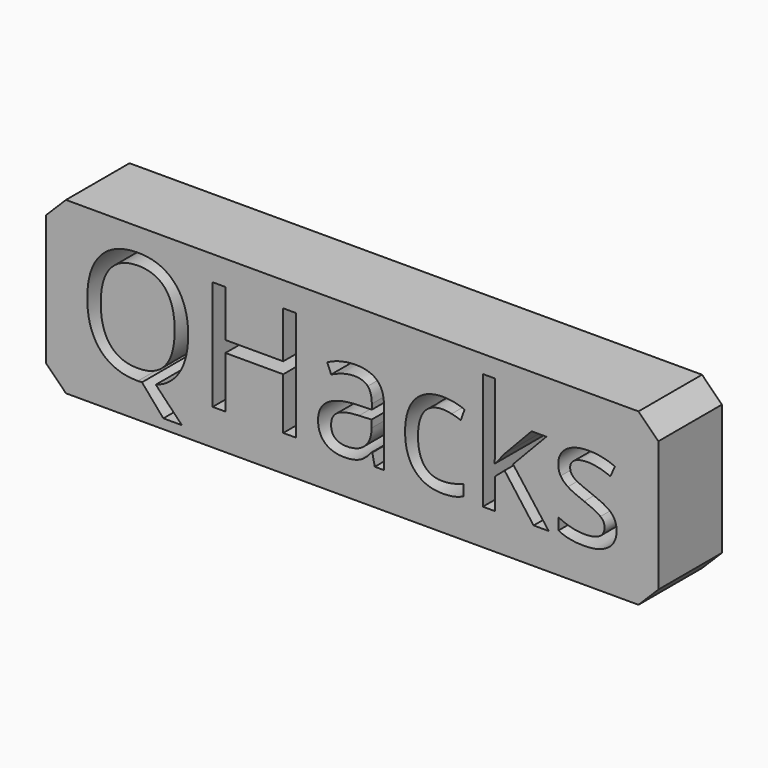
from build123d import *

# Parameters (mm, degrees)
F0_W     = 195.7156552496
F0_H     = 54.4285553703
F1_DEPTH = 25.4
F2_SIZE  = 6.35


with BuildPart() as f1:
    # F0 (on Front) → F1 (new body)
    with BuildSketch(Plane.XZ):
        with Locations((1.5967868947, 19.0752327908)):
            Rectangle(F0_W, F0_H)
        with BuildLine():
            add(Edge.make_bspline(
                [(-55.0757028941, 34.1243483876), (-50.8299687136, 29.3258242234), (-50.8299687136, 20.8804216944)],
                knots=[0, 0, 0, 1, 1, 1], degree=2))
            add(Edge.make_bspline(
                [(-50.8299687136, 20.8804216944), (-50.8299687136, 14.1394549486), (-53.5401751616, 9.6749080662)],
                knots=[0, 0, 0, 1, 1, 1], degree=2))
            add(Edge.make_bspline(
                [(-53.5401751616, 9.6749080662), (-56.2503816095, 5.2103611838), (-61.1947809083, 3.6287676193)],
                knots=[0, 0, 0, 1, 1, 1], degree=2))
            Line((-61.1947809083, 3.6287676193), (-52.8491876819, -5.0623193469))
            Line((-52.8491876819, -5.0623193469), (-58.7763247296, -5.0623193469))
            Line((-58.7763247296, -5.0623193469), (-65.6094231394, 2.861003753))
            Line((-65.6094231394, 2.861003753), (-66.9299769894, 2.8072602824))
            add(Edge.make_bspline(
                [(-66.9299769894, 2.8072602824), (-74.6767144, 2.8072602824), (-78.8878992065, 7.5482021566)],
                knots=[0, 0, 0, 1, 1, 1], degree=2))
            add(Edge.make_bspline(
                [(-78.8878992065, 7.5482021566), (-83.099084013, 12.2891440308), (-83.099084013, 20.9264875264)],
                knots=[0, 0, 0, 1, 1, 1], degree=2))
            add(Edge.make_bspline(
                [(-83.099084013, 20.9264875264), (-83.099084013, 29.494732274), (-78.8763827485, 34.2088024129)],
                knots=[0, 0, 0, 1, 1, 1], degree=2))
            add(Edge.make_bspline(
                [(-78.8763827485, 34.2088024129), (-74.653681484, 38.9228725518), (-66.8839111574, 38.9228725518)],
                knots=[0, 0, 0, 1, 1, 1], degree=2))
            add(Edge.make_bspline(
                [(-66.8839111574, 38.9228725518), (-59.3214370746, 38.9228725518), (-55.0757028941, 34.1243483876)],
                knots=[0, 0, 0, 1, 1, 1], degree=2))
        make_face(mode=Mode.SUBTRACT)
        with BuildLine():
            Line((11.7658193034, 3.2909515182), (8.8099284183, 3.2909515182))
            Line((8.8099284183, 3.2909515182), (8.019131636, 7.0376391856))
            Line((8.019131636, 7.0376391856), (7.8271906695, 7.0376391856))
            add(Edge.make_bspline(
                [(7.8271906695, 7.0376391856), (5.8617151718, 4.5654395362), (3.9077561321, 3.6863499093)],
                knots=[0, 0, 0, 1, 1, 1], degree=2))
            add(Edge.make_bspline(
                [(3.9077561321, 3.6863499093), (1.9537970925, 2.8072602824), (-0.9790608767, 2.8072602824)],
                knots=[0, 0, 0, 1, 1, 1], degree=2))
            add(Edge.make_bspline(
                [(-0.9790608767, 2.8072602824), (-4.886978956, 2.8072602824), (-7.1058165295, 4.8264792507)],
                knots=[0, 0, 0, 1, 1, 1], degree=2))
            add(Edge.make_bspline(
                [(-7.1058165295, 4.8264792507), (-9.324654103, 6.845698219), (-9.324654103, 10.5616753317)],
                knots=[0, 0, 0, 1, 1, 1], degree=2))
            add(Edge.make_bspline(
                [(-9.324654103, 10.5616753317), (-9.324654103, 18.523386625), (3.4125484384, 18.9072685581)],
                knots=[0, 0, 0, 1, 1, 1], degree=2))
            Line((3.4125484384, 18.9072685581), (7.8732565014, 19.0531436927))
            Line((7.8732565014, 19.0531436927), (7.8732565014, 20.6884807279))
            add(Edge.make_bspline(
                [(7.8732565014, 20.6884807279), (7.8732565014, 23.7825691089), (6.5450250128, 25.2566757322)],
                knots=[0, 0, 0, 1, 1, 1], degree=2))
            add(Edge.make_bspline(
                [(6.5450250128, 25.2566757322), (5.2167935241, 26.7307823554), (2.283935555, 26.7307823554)],
                knots=[0, 0, 0, 1, 1, 1], degree=2))
            add(Edge.make_bspline(
                [(2.283935555, 26.7307823554), (-1.0020937927, 26.7307823554), (-5.1480186705, 24.7192410258)],
                knots=[0, 0, 0, 1, 1, 1], degree=2))
            Line((-5.1480186705, 24.7192410258), (-6.3764408566, 27.7672635749))
            add(Edge.make_bspline(
                [(-6.3764408566, 27.7672635749), (-4.4339982749, 28.8191000717), (-2.1191902181, 29.4179558874)],
                knots=[0, 0, 0, 1, 1, 1], degree=2))
            add(Edge.make_bspline(
                [(-2.1191902181, 29.4179558874), (0.1956178387, 30.016811703), (2.5296199922, 30.016811703)],
                knots=[0, 0, 0, 1, 1, 1], degree=2))
            add(Edge.make_bspline(
                [(2.5296199922, 30.016811703), (7.2283348538, 30.016811703), (9.4970770786, 27.9323328061)],
                knots=[0, 0, 0, 1, 1, 1], degree=2))
            add(Edge.make_bspline(
                [(9.4970770786, 27.9323328061), (11.7658193034, 25.8478539092), (11.7658193034, 21.2412707116)],
                knots=[0, 0, 0, 1, 1, 1], degree=2))
            Line((11.7658193034, 21.2412707116), (11.7658193034, 3.2909515182))
        make_face(mode=Mode.SUBTRACT)
        with BuildLine():
            add(Edge.make_bspline(
                [(37.1173821677, 4.181557603), (34.4839521064, 2.8072602824), (30.4762247245, 2.8072602824)],
                knots=[0, 0, 0, 1, 1, 1], degree=2))
            add(Edge.make_bspline(
                [(30.4762247245, 2.8072602824), (24.7640615594, 2.8072602824), (21.631584985, 6.3236187899)],
                knots=[0, 0, 0, 1, 1, 1], degree=2))
            add(Edge.make_bspline(
                [(21.631584985, 6.3236187899), (18.4991084106, 9.8399772974), (18.4991084106, 16.2738384968)],
                knots=[0, 0, 0, 1, 1, 1], degree=2))
            add(Edge.make_bspline(
                [(18.4991084106, 16.2738384968), (18.4991084106, 22.8689301081), (21.6814896363, 26.4697426409)],
                knots=[0, 0, 0, 1, 1, 1], degree=2))
            add(Edge.make_bspline(
                [(21.6814896363, 26.4697426409), (24.863870862, 30.0705551737), (30.737264439, 30.0705551737)],
                knots=[0, 0, 0, 1, 1, 1], degree=2))
            add(Edge.make_bspline(
                [(30.737264439, 30.0705551737), (32.6336411887, 30.0705551737), (34.5300179384, 29.6598015052)],
                knots=[0, 0, 0, 1, 1, 1], degree=2))
            add(Edge.make_bspline(
                [(34.5300179384, 29.6598015052), (36.4263946881, 29.2490478368), (37.5012641008, 28.6962578531)],
                knots=[0, 0, 0, 1, 1, 1], degree=2))
            Line((37.5012641008, 28.6962578531), (36.2805195535, 25.3180968415))
            add(Edge.make_bspline(
                [(36.2805195535, 25.3180968415), (34.9599657035, 25.8478539092), (33.4014050549, 26.193347649)],
                knots=[0, 0, 0, 1, 1, 1], degree=2))
            add(Edge.make_bspline(
                [(33.4014050549, 26.193347649), (31.8428444064, 26.5388413888), (30.645132775, 26.5388413888)],
                knots=[0, 0, 0, 1, 1, 1], degree=2))
            add(Edge.make_bspline(
                [(30.645132775, 26.5388413888), (22.6296780112, 26.5388413888), (22.6296780112, 16.3199043288)],
                knots=[0, 0, 0, 1, 1, 1], degree=2))
            add(Edge.make_bspline(
                [(22.6296780112, 16.3199043288), (22.6296780112, 11.4753143326), (24.5836370508, 8.8841112839)],
                knots=[0, 0, 0, 1, 1, 1], degree=2))
            add(Edge.make_bspline(
                [(24.5836370508, 8.8841112839), (26.5375960905, 6.2929082353), (30.3764154218, 6.2929082353)],
                knots=[0, 0, 0, 1, 1, 1], degree=2))
            add(Edge.make_bspline(
                [(30.3764154218, 6.2929082353), (33.6624447695, 6.2929082353), (37.1173821677, 7.7055937492)],
                knots=[0, 0, 0, 1, 1, 1], degree=2))
            Line((37.1173821677, 7.7055937492), (37.1173821677, 4.181557603))
        make_face(mode=Mode.SUBTRACT)
        with BuildLine():
            add(Edge.make_bspline(
                [(84.4653798006, 14.8074095122), (86.1083944744, 13.0799408131), (86.1083944744, 10.4618660291)],
                knots=[0, 0, 0, 1, 1, 1], degree=2))
            add(Edge.make_bspline(
                [(86.1083944744, 10.4618660291), (86.1083944744, 6.7919547483), (83.3751551105, 4.7996075154)],
                knots=[0, 0, 0, 1, 1, 1], degree=2))
            add(Edge.make_bspline(
                [(83.3751551105, 4.7996075154), (80.6419157466, 2.8072602824), (75.6975164478, 2.8072602824)],
                knots=[0, 0, 0, 1, 1, 1], degree=2))
            add(Edge.make_bspline(
                [(75.6975164478, 2.8072602824), (70.4690445185, 2.8072602824), (67.543864188, 4.4656302335)],
                knots=[0, 0, 0, 1, 1, 1], degree=2))
            Line((67.543864188, 4.4656302335), (67.543864188, 8.1585744303))
            add(Edge.make_bspline(
                [(67.543864188, 8.1585744303), (69.4402409377, 7.1988695975), (71.6091738599, 6.6499184331)],
                knots=[0, 0, 0, 1, 1, 1], degree=2))
            add(Edge.make_bspline(
                [(71.6091738599, 6.6499184331), (73.7781067821, 6.1009672687), (75.7973257504, 6.1009672687)],
                knots=[0, 0, 0, 1, 1, 1], degree=2))
            add(Edge.make_bspline(
                [(75.7973257504, 6.1009672687), (78.9144470475, 6.1009672687), (80.5920110953, 7.0952214755)],
                knots=[0, 0, 0, 1, 1, 1], degree=2))
            add(Edge.make_bspline(
                [(80.5920110953, 7.0952214755), (82.2695751431, 8.0894756823), (82.2695751431, 10.1317275666)],
                knots=[0, 0, 0, 1, 1, 1], degree=2))
            add(Edge.make_bspline(
                [(82.2695751431, 10.1317275666), (82.2695751431, 11.6672552992), (80.9413436544, 12.7574799893)],
                knots=[0, 0, 0, 1, 1, 1], degree=2))
            add(Edge.make_bspline(
                [(80.9413436544, 12.7574799893), (79.6131121658, 13.8477046794), (75.7435822798, 15.3371665799)],
                knots=[0, 0, 0, 1, 1, 1], degree=2))
            add(Edge.make_bspline(
                [(75.7435822798, 15.3371665799), (72.073670999, 16.7037862619), (70.5266268085, 17.724912204)],
                knots=[0, 0, 0, 1, 1, 1], degree=2))
            add(Edge.make_bspline(
                [(70.5266268085, 17.724912204), (68.9795826179, 18.7460381462), (68.2233352097, 20.0397202609)],
                knots=[0, 0, 0, 1, 1, 1], degree=2))
            add(Edge.make_bspline(
                [(68.2233352097, 20.0397202609), (67.4670878014, 21.3334023755), (67.4670878014, 23.1299698226)],
                knots=[0, 0, 0, 1, 1, 1], degree=2))
            add(Edge.make_bspline(
                [(67.4670878014, 23.1299698226), (67.4670878014, 26.3469004223), (70.0851625854, 28.208727798)],
                knots=[0, 0, 0, 1, 1, 1], degree=2))
            add(Edge.make_bspline(
                [(70.0851625854, 28.208727798), (72.7032373694, 30.0705551737), (77.2560770963, 30.0705551737)],
                knots=[0, 0, 0, 1, 1, 1], degree=2))
            add(Edge.make_bspline(
                [(77.2560770963, 30.0705551737), (81.5018112768, 30.0705551737), (85.5632821294, 28.3430864746)],
                knots=[0, 0, 0, 1, 1, 1], degree=2))
            Line((85.5632821294, 28.3430864746), (84.1429189768, 25.1031229589))
            add(Edge.make_bspline(
                [(84.1429189768, 25.1031229589), (80.1889350655, 26.7307823554), (76.9720044658, 26.7307823554)],
                knots=[0, 0, 0, 1, 1, 1], degree=2))
            add(Edge.make_bspline(
                [(76.9720044658, 26.7307823554), (74.1389557993, 26.7307823554), (72.69939855, 25.8440150899)],
                knots=[0, 0, 0, 1, 1, 1], degree=2))
            add(Edge.make_bspline(
                [(72.69939855, 25.8440150899), (71.2598413008, 24.9572478243), (71.2598413008, 23.3986871758)],
                knots=[0, 0, 0, 1, 1, 1], degree=2))
            add(Edge.make_bspline(
                [(71.2598413008, 23.3986871758), (71.2598413008, 22.3391730403), (71.8011148265, 21.5982809094)],
                knots=[0, 0, 0, 1, 1, 1], degree=2))
            add(Edge.make_bspline(
                [(71.8011148265, 21.5982809094), (72.3423883522, 20.8573887784), (73.5400999836, 20.1855953954)],
                knots=[0, 0, 0, 1, 1, 1], degree=2))
            add(Edge.make_bspline(
                [(73.5400999836, 20.1855953954), (74.737811615, 19.5138020125), (78.1466831812, 18.2393139944)],
                knots=[0, 0, 0, 1, 1, 1], degree=2))
            add(Edge.make_bspline(
                [(78.1466831812, 18.2393139944), (82.8223651268, 16.5348782113), (84.4653798006, 14.8074095122)],
                knots=[0, 0, 0, 1, 1, 1], degree=2))
        make_face(mode=Mode.SUBTRACT)
        Polygon((-16.3804040341, 38.3700825681), (-16.3804040341, 3.2909515182), (-20.457230164, 3.2909515182), (-20.457230164, 19.797874643), (-38.9373064251, 19.797874643), (-38.9373064251, 3.2909515182), (-43.014132555, 3.2909515182), (-43.014132555, 38.3700825681), (-38.9373064251, 38.3700825681), (-38.9373064251, 23.4447530078), (-20.457230164, 23.4447530078), (-20.457230164, 38.3700825681), align=None, mode=Mode.SUBTRACT)
        with BuildLine():
            Line((47.1059900679, 16.7498520939), (47.2979310344, 16.7498520939))
            add(Edge.make_bspline(
                [(47.2979310344, 16.7498520939), (48.3267346153, 18.2162810785), (50.4380852475, 20.5886714252)],
                knots=[0, 0, 0, 1, 1, 1], degree=2))
            Line((50.4380852475, 20.5886714252), (58.9295536085, 29.5868639379))
            Line((58.9295536085, 29.5868639379), (63.6589790247, 29.5868639379))
            Line((63.6589790247, 29.5868639379), (53.0024165608, 18.385189129))
            Line((53.0024165608, 18.385189129), (64.403709975, 3.2909515182))
            Line((64.403709975, 3.2909515182), (59.5821528948, 3.2909515182))
            Line((59.5821528948, 3.2909515182), (50.2922101129, 15.7210485131))
            Line((50.2922101129, 15.7210485131), (47.2979310344, 13.1260066451))
            Line((47.2979310344, 13.1260066451), (47.2979310344, 3.2909515182))
            Line((47.2979310344, 3.2909515182), (43.3593024005, 3.2909515182))
            Line((43.3593024005, 3.2909515182), (43.3593024005, 40.6273083349))
            Line((43.3593024005, 40.6273083349), (47.2979310344, 40.6273083349))
            Line((47.2979310344, 40.6273083349), (47.2979310344, 20.8266782238))
            add(Edge.make_bspline(
                [(47.2979310344, 20.8266782238), (47.2979310344, 19.5138020125), (47.1059900679, 16.7498520939)],
                knots=[0, 0, 0, 1, 1, 1], degree=2))
        make_face(mode=Mode.SUBTRACT)
    extrude(amount=F1_DEPTH)

    # F2
    f2_edges = [f1.edges().sort_by_distance(p)[0] for p in [
        (-96.261041, -12.7, 46.28951),
        (99.454615, -12.7, 46.28951),
        (99.454615, -12.7, -8.139045),
        (-96.261041, -12.7, -8.139045),
    ]]
    chamfer(f2_edges, length=F2_SIZE)


with BuildPart() as f1b:
    # F0 (on Front) → F1, piece 2 (new body)
    with BuildSketch(Plane.XZ):
        with BuildLine():
            add(Edge.make_bspline(
                [(-75.7477449935, 31.5907276289), (-78.7842510846, 27.9054610708), (-78.7842510846, 20.8804216944)],
                knots=[0, 0, 0, 1, 1, 1], degree=2))
            add(Edge.make_bspline(
                [(-78.7842510846, 20.8804216944), (-78.7842510846, 13.7555730154), (-75.7477449935, 10.0703064573)],
                knots=[0, 0, 0, 1, 1, 1], degree=2))
            add(Edge.make_bspline(
                [(-75.7477449935, 10.0703064573), (-72.7112389024, 6.3850398992), (-66.9299769894, 6.3850398992)],
                knots=[0, 0, 0, 1, 1, 1], degree=2))
            add(Edge.make_bspline(
                [(-66.9299769894, 6.3850398992), (-61.1026492444, 6.3850398992), (-58.1275642626, 10.05495118)],
                knots=[0, 0, 0, 1, 1, 1], degree=2))
            add(Edge.make_bspline(
                [(-58.1275642626, 10.05495118), (-55.1524792808, 13.7248624608), (-55.1524792808, 20.8804216944)],
                knots=[0, 0, 0, 1, 1, 1], degree=2))
            add(Edge.make_bspline(
                [(-55.1524792808, 20.8804216944), (-55.1524792808, 27.9592045414), (-58.1160478046, 31.6175993642)],
                knots=[0, 0, 0, 1, 1, 1], degree=2))
            add(Edge.make_bspline(
                [(-58.1160478046, 31.6175993642), (-61.0796163284, 35.275994187), (-66.8839111574, 35.275994187)],
                knots=[0, 0, 0, 1, 1, 1], degree=2))
            add(Edge.make_bspline(
                [(-66.8839111574, 35.275994187), (-72.7112389024, 35.275994187), (-75.7477449935, 31.5907276289)],
                knots=[0, 0, 0, 1, 1, 1], degree=2))
        make_face()
    extrude(amount=F1_DEPTH)


with BuildPart() as f1c:
    # F0 (on Front) → F1, piece 3 (new body)
    with BuildSketch(Plane.XZ):
        with BuildLine():
            add(Edge.make_bspline(
                [(-3.8428200979, 7.2257413328), (-2.5376215252, 6.1009672687), (-0.1882640944, 6.1009672687)],
                knots=[0, 0, 0, 1, 1, 1], degree=2))
            add(Edge.make_bspline(
                [(-0.1882640944, 6.1009672687), (3.535390657, 6.1009672687), (5.6582577472, 8.1393803337)],
                knots=[0, 0, 0, 1, 1, 1], degree=2))
            add(Edge.make_bspline(
                [(5.6582577472, 8.1393803337), (7.7811248375, 10.1777933986), (7.7811248375, 13.8477046794)],
                knots=[0, 0, 0, 1, 1, 1], degree=2))
            Line((7.7811248375, 13.8477046794), (7.7811248375, 16.2200950262))
            Line((7.7811248375, 16.2200950262), (3.7964303715, 16.0588646142))
            add(Edge.make_bspline(
                [(3.7964303715, 16.0588646142), (-0.9560279607, 15.8899565637), (-3.0520233156, 14.5809191717)],
                knots=[0, 0, 0, 1, 1, 1], degree=2))
            add(Edge.make_bspline(
                [(-3.0520233156, 14.5809191717), (-5.1480186705, 13.2718817797), (-5.1480186705, 10.5156094998)],
                knots=[0, 0, 0, 1, 1, 1], degree=2))
            add(Edge.make_bspline(
                [(-5.1480186705, 10.5156094998), (-5.1480186705, 8.3505153969), (-3.8428200979, 7.2257413328)],
                knots=[0, 0, 0, 1, 1, 1], degree=2))
        make_face()
    extrude(amount=F1_DEPTH)


solid = Compound([f1.part, f1b.part, f1c.part])
